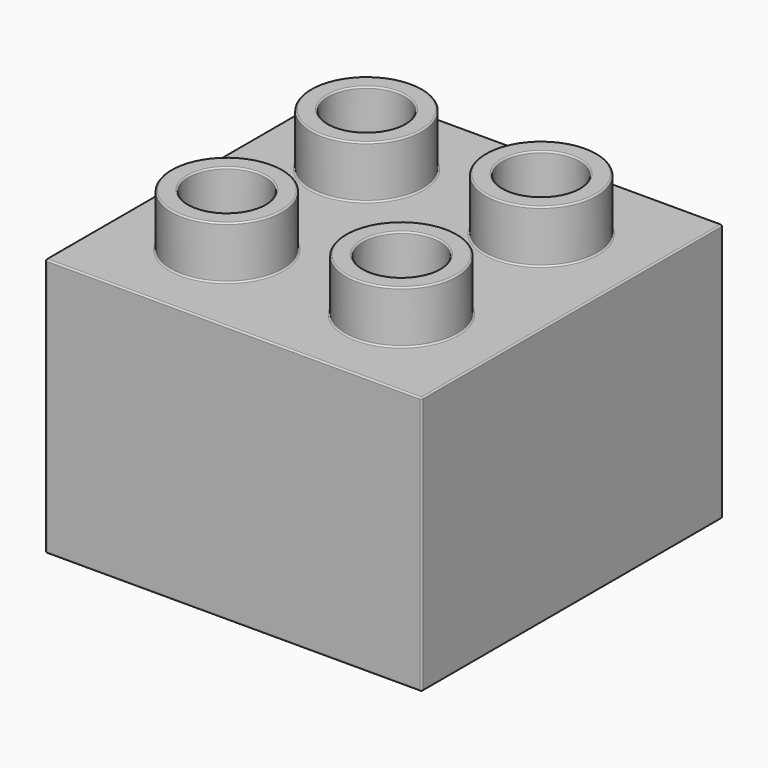
from build123d import *

# Parameters (mm, degrees)
F0_W     = 31.75
F0_H     = 31.75
F1_DEPTH = 21.8186
F2_R     = 4.699
F2_R_2   = 3.2385
F3_DEPTH = 4.445
F4_W     = 28.448
F4_H     = 28.448
F5_DEPTH = 18.161
F6_R     = 6.6675
F6_R_2   = 5.334
F7_DEPTH = 15.494
F8_W     = 1.651
F8_H     = 1.143
F9_DEPTH = 18.161
F10_R    = 0.127
F11_R    = 0.127


with BuildPart() as f1:
    # F0 (on Top) → F1 (new body)
    with BuildSketch(Plane.XY):
        with Locations((-50.6538134068, 18.9925254367)):
            Rectangle(F0_W, F0_H)
    extrude(amount=F1_DEPTH)

    # F2 (on face) → F3 (join)
    with BuildSketch(Plane.XY.offset(21.8186)):
        with Locations((-43.2878134068, 11.6265254367)):
            Circle(F2_R)
        with Locations((-43.2878134068, 11.6265254367)):
            Circle(F2_R_2, mode=Mode.SUBTRACT)
        with Locations((-58.0198134068, 11.6265254367)):
            Circle(F2_R)
        with Locations((-58.0198134068, 11.6265254367)):
            Circle(F2_R_2, mode=Mode.SUBTRACT)
        with Locations((-58.0198134068, 26.3585254367)):
            Circle(F2_R)
        with Locations((-58.0198134068, 26.3585254367)):
            Circle(F2_R_2, mode=Mode.SUBTRACT)
        with Locations((-43.2878134068, 26.3585254367)):
            Circle(F2_R)
        with Locations((-43.2878134068, 26.3585254367)):
            Circle(F2_R_2, mode=Mode.SUBTRACT)
    extrude(amount=F3_DEPTH)

    # F4 (on face) → F5 (cut)
    with BuildSketch(Plane(origin=(0, 0, 0), x_dir=(1, 0, 0), z_dir=(0, 0, -1))):
        with Locations((-50.6538134068, -18.9925254367)):
            Rectangle(F4_W, F4_H)
    extrude(amount=-F5_DEPTH, mode=Mode.SUBTRACT)

    # F6 (on face) → F7 (join)
    with BuildSketch(Plane(origin=(0, 0, 18.161), x_dir=(1, 0, 0), z_dir=(0, 0, -1))):
        with Locations((-50.6538134068, -18.9925254367)):
            Circle(F6_R)
        with Locations((-50.6538134068, -18.9925254367)):
            Circle(F6_R_2, mode=Mode.SUBTRACT)
    extrude(amount=F7_DEPTH)

    # F8 (on face) → F9 (join)
    with BuildSketch(Plane(origin=(0, 0, 18.161), x_dir=(1, 0, 0), z_dir=(0, 0, -1))):
        with Locations((-43.0973134068, -5.3400254367)):
            Rectangle(F8_W, F8_H)
        with Locations((-37.2553134068, -11.1820254367)):
            Rectangle(F8_W, F8_H)
        with Locations((-58.2103134068, -5.3400254367)):
            Rectangle(F8_W, F8_H)
        with Locations((-64.0523134068, -11.1820254367)):
            Rectangle(F8_W, F8_H)
        with Locations((-64.0523134068, -26.8030254367)):
            Rectangle(F8_W, F8_H)
        with Locations((-58.2103134068, -32.6450254367)):
            Rectangle(F8_W, F8_H)
        with Locations((-43.0973134068, -32.6450254367)):
            Rectangle(F8_W, F8_H)
        with Locations((-37.2553134068, -26.8030254367)):
            Rectangle(F8_W, F8_H)
    extrude(amount=F9_DEPTH)

    # F10
    f10_edges = [f1.edges().sort_by_distance(p)[0] for p in [
        (-53.320813, 26.358525, 24.0411),
        (-62.718813, 26.358525, 21.8186),
        (-62.718813, 26.358525, 26.2636),
        (-54.781313, 26.358525, 24.0411),
        (-61.258313, 26.358525, 21.8186),
        (-61.258313, 26.358525, 26.2636),
        (-38.588813, 26.358525, 24.0411),
        (-47.986813, 26.358525, 21.8186),
        (-47.986813, 26.358525, 26.2636),
        (-40.049313, 26.358525, 24.0411),
        (-46.526313, 26.358525, 21.8186),
        (-46.526313, 26.358525, 26.2636),
        (-38.588813, 11.626525, 24.0411),
        (-47.986813, 11.626525, 21.8186),
        (-47.986813, 11.626525, 26.2636),
        (-40.049313, 11.626525, 24.0411),
        (-46.526313, 11.626525, 21.8186),
        (-46.526313, 11.626525, 26.2636),
        (-53.320813, 11.626525, 24.0411),
        (-62.718813, 11.626525, 21.8186),
        (-62.718813, 11.626525, 26.2636),
        (-54.781313, 11.626525, 24.0411),
        (-61.258313, 11.626525, 21.8186),
        (-61.258313, 11.626525, 26.2636),
        (-50.653813, 34.867525, 21.8186),
        (-34.778813, 18.992525, 21.8186),
        (-66.528813, 18.992525, 21.8186),
        (-50.653813, 3.117525, 21.8186),
        (-66.528813, 34.867525, 10.9093),
        (-66.528813, 3.117525, 10.9093),
        (-66.528813, 18.992525, 0),
        (-34.778813, 3.117525, 10.9093),
        (-50.653813, 3.117525, 0),
        (-34.778813, 34.867525, 10.9093),
        (-34.778813, 18.992525, 0),
        (-50.653813, 34.867525, 0),
        (-45.319813, 18.992525, 10.414),
        (-55.987813, 18.992525, 18.161),
        (-55.987813, 18.992525, 2.667),
        (-43.986313, 18.992525, 10.414),
        (-57.321313, 18.992525, 18.161),
        (-57.321313, 18.992525, 2.667),
        (-36.429813, 30.295525, 0),
        (-37.255313, 27.374525, 0),
        (-38.080813, 26.803025, 0),
        (-37.255313, 26.231525, 0),
        (-36.429813, 18.992525, 0),
        (-37.255313, 11.753525, 0),
        (-38.080813, 11.182025, 0),
        (-37.255313, 10.610525, 0),
        (-36.429813, 7.689525, 0),
        (-39.350813, 4.768525, 0),
        (-42.271813, 5.340025, 0),
        (-43.097313, 5.911525, 0),
        (-43.922813, 5.340025, 0),
        (-50.653813, 4.768525, 0),
        (-57.384813, 5.340025, 0),
        (-58.210313, 5.911525, 0),
        (-59.035813, 5.340025, 0),
        (-61.956813, 4.768525, 0),
        (-64.877813, 7.689525, 0),
        (-64.052313, 10.610525, 0),
        (-63.226813, 11.182025, 0),
        (-64.052313, 11.753525, 0),
        (-64.877813, 18.992525, 0),
        (-64.052313, 26.231525, 0),
        (-63.226813, 26.803025, 0),
        (-64.052313, 27.374525, 0),
        (-64.877813, 30.295525, 0),
        (-61.956813, 33.216525, 0),
        (-59.035813, 32.645025, 0),
        (-58.210313, 32.073525, 0),
        (-57.384813, 32.645025, 0),
        (-50.653813, 33.216525, 0),
        (-43.922813, 32.645025, 0),
        (-43.097313, 32.073525, 0),
        (-42.271813, 32.645025, 0),
        (-39.350813, 33.216525, 0),
    ]]
    fillet(f10_edges, radius=F10_R)

    # F11
    f11_edges = [f1.edges().sort_by_distance(p)[0] for p in [
        (-57.448313, 18.992525, 18.161),
        (-36.429813, 7.689525, 18.161),
        (-37.255313, 10.610525, 18.161),
        (-38.080813, 11.182025, 18.161),
        (-37.255313, 11.753525, 18.161),
        (-36.429813, 18.992525, 18.161),
        (-37.255313, 26.231525, 18.161),
        (-38.080813, 26.803025, 18.161),
        (-37.255313, 27.374525, 18.161),
        (-36.429813, 30.295525, 18.161),
        (-39.350813, 33.216525, 18.161),
        (-42.271813, 32.645025, 18.161),
        (-43.097313, 32.073525, 18.161),
        (-43.922813, 32.645025, 18.161),
        (-50.653813, 33.216525, 18.161),
        (-57.384813, 32.645025, 18.161),
        (-58.210313, 32.073525, 18.161),
        (-59.035813, 32.645025, 18.161),
        (-61.956813, 33.216525, 18.161),
        (-64.877813, 30.295525, 18.161),
        (-64.052313, 27.374525, 18.161),
        (-63.226813, 26.803025, 18.161),
        (-64.052313, 26.231525, 18.161),
        (-64.877813, 18.992525, 18.161),
        (-64.052313, 11.753525, 18.161),
        (-63.226813, 11.182025, 18.161),
        (-64.052313, 10.610525, 18.161),
        (-64.877813, 7.689525, 18.161),
        (-61.956813, 4.768525, 18.161),
        (-59.035813, 5.340025, 18.161),
        (-58.210313, 5.911525, 18.161),
        (-57.384813, 5.340025, 18.161),
        (-50.653813, 4.768525, 18.161),
        (-43.922813, 5.340025, 18.161),
        (-43.097313, 5.911525, 18.161),
        (-42.271813, 5.340025, 18.161),
        (-39.350813, 4.768525, 18.161),
    ]]
    fillet(f11_edges, radius=F11_R)


solid = f1.part
